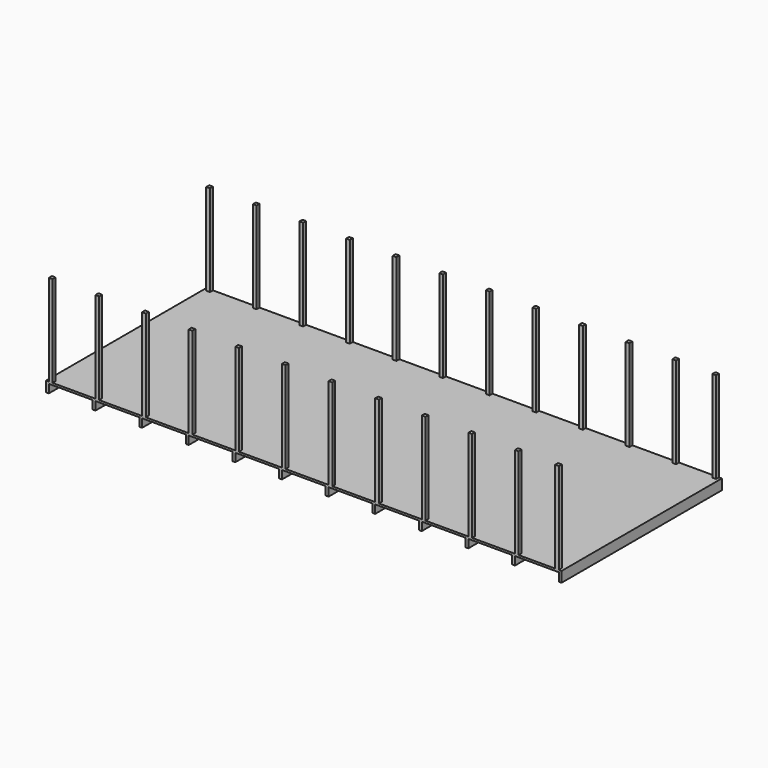
from build123d import *

# Parameters (mm, degrees)
F0_W     = 30.000001
F0_H     = 2150
F0_W_2   = 469.999999
F1_DEPTH = 22
F2_DEPTH = 90
F3_W     = 40
F3_H     = 40
F4_DEPTH = 980


with BuildPart() as f1:
    # F0 (on Top) → F1 (new body)
    with BuildSketch(Plane.XY):
        with Locations((-137.50112, 990.378466)):
            Rectangle(F0_W, F0_H)
        with Locations((112.498879, 990.378466)):
            Rectangle(F0_W_2, F0_H)
        with Locations((362.498879, 990.378466)):
            Rectangle(F0_W, F0_H)
        with Locations((612.498879, 990.378466)):
            Rectangle(F0_W_2, F0_H)
        with Locations((862.498879, 990.378466)):
            Rectangle(F0_W, F0_H)
        with Locations((1112.498879, 990.378466)):
            Rectangle(F0_W_2, F0_H)
        with Locations((1362.498879, 990.378466)):
            Rectangle(F0_W, F0_H)
        with Locations((1612.498879, 990.378466)):
            Rectangle(F0_W_2, F0_H)
        with Locations((1862.498879, 990.378466)):
            Rectangle(F0_W, F0_H)
        with Locations((2112.498879, 990.378466)):
            Rectangle(F0_W_2, F0_H)
        with Locations((2362.498879, 990.378466)):
            Rectangle(F0_W, F0_H)
        with Locations((2612.498879, 990.378466)):
            Rectangle(F0_W_2, F0_H)
        with Locations((2862.498879, 990.378466)):
            Rectangle(F0_W, F0_H)
        with Locations((3112.498879, 990.378466)):
            Rectangle(F0_W_2, F0_H)
        with Locations((3362.498879, 990.378466)):
            Rectangle(F0_W, F0_H)
        with Locations((3612.498879, 990.378466)):
            Rectangle(F0_W_2, F0_H)
        with Locations((3862.498879, 990.378466)):
            Rectangle(F0_W, F0_H)
        with Locations((4112.498879, 990.378466)):
            Rectangle(F0_W_2, F0_H)
        with Locations((4362.498879, 990.378466)):
            Rectangle(F0_W, F0_H)
        with Locations((4612.498879, 990.378466)):
            Rectangle(F0_W_2, F0_H)
        with Locations((4862.498879, 990.378466)):
            Rectangle(F0_W, F0_H)
        with Locations((5112.498879, 990.378466)):
            Rectangle(F0_W_2, F0_H)
        with Locations((5362.498879, 990.378466)):
            Rectangle(F0_W, F0_H)
    extrude(amount=F1_DEPTH)

    # F0 (on Top) → F2 (join)
    with BuildSketch(Plane.XY):
        with Locations((-137.50112, 990.378466)):
            Rectangle(F0_W, F0_H)
        with Locations((362.498879, 990.378466)):
            Rectangle(F0_W, F0_H)
        with Locations((862.498879, 990.378466)):
            Rectangle(F0_W, F0_H)
        with Locations((1362.498879, 990.378466)):
            Rectangle(F0_W, F0_H)
        with Locations((1862.498879, 990.378466)):
            Rectangle(F0_W, F0_H)
        with Locations((2362.498879, 990.378466)):
            Rectangle(F0_W, F0_H)
        with Locations((2862.498879, 990.378466)):
            Rectangle(F0_W, F0_H)
        with Locations((3362.498879, 990.378466)):
            Rectangle(F0_W, F0_H)
        with Locations((3862.498879, 990.378466)):
            Rectangle(F0_W, F0_H)
        with Locations((4362.498879, 990.378466)):
            Rectangle(F0_W, F0_H)
        with Locations((4862.498879, 990.378466)):
            Rectangle(F0_W, F0_H)
        with Locations((5362.498879, 990.378466)):
            Rectangle(F0_W, F0_H)
    extrude(amount=-F2_DEPTH)

    # F3 (on face) → F4 (join)
    with BuildSketch(Plane.XY.offset(22)):
        with Locations((-102.501121, -64.621534)):
            Rectangle(F3_W, F3_H)
        with Locations((397.498879, -64.621534)):
            Rectangle(F3_W, F3_H)
        with Locations((897.498879, -64.621534)):
            Rectangle(F3_W, F3_H)
        with Locations((-102.501121, 2045.378466)):
            Rectangle(F3_W, F3_H)
        with Locations((397.498879, 2045.378466)):
            Rectangle(F3_W, F3_H)
        with Locations((897.498879, 2045.378466)):
            Rectangle(F3_W, F3_H)
        with Locations((1397.498879, 2045.378466)):
            Rectangle(F3_W, F3_H)
        with Locations((1897.498879, 2045.378466)):
            Rectangle(F3_W, F3_H)
        with Locations((2397.498879, 2045.378466)):
            Rectangle(F3_W, F3_H)
        with Locations((2897.498879, 2045.378466)):
            Rectangle(F3_W, F3_H)
        with Locations((3397.498879, 2045.378466)):
            Rectangle(F3_W, F3_H)
        with Locations((3897.498879, 2045.378466)):
            Rectangle(F3_W, F3_H)
        with Locations((4397.498879, 2045.378466)):
            Rectangle(F3_W, F3_H)
        with Locations((4897.498879, 2045.378466)):
            Rectangle(F3_W, F3_H)
        with Locations((5327.49888, 2045.378466)):
            Rectangle(F3_W, F3_H)
        with Locations((1397.498879, -64.621534)):
            Rectangle(F3_W, F3_H)
        with Locations((1897.498879, -64.621534)):
            Rectangle(F3_W, F3_H)
        with Locations((2397.498879, -64.621534)):
            Rectangle(F3_W, F3_H)
        with Locations((2897.498879, -64.621534)):
            Rectangle(F3_W, F3_H)
        with Locations((3397.498879, -64.621534)):
            Rectangle(F3_W, F3_H)
        with Locations((3897.498879, -64.621534)):
            Rectangle(F3_W, F3_H)
        with Locations((4397.498879, -64.621534)):
            Rectangle(F3_W, F3_H)
        with Locations((4897.498879, -64.621534)):
            Rectangle(F3_W, F3_H)
        with Locations((5327.49888, -64.621534)):
            Rectangle(F3_W, F3_H)
    extrude(amount=F4_DEPTH)


solid = f1.part
